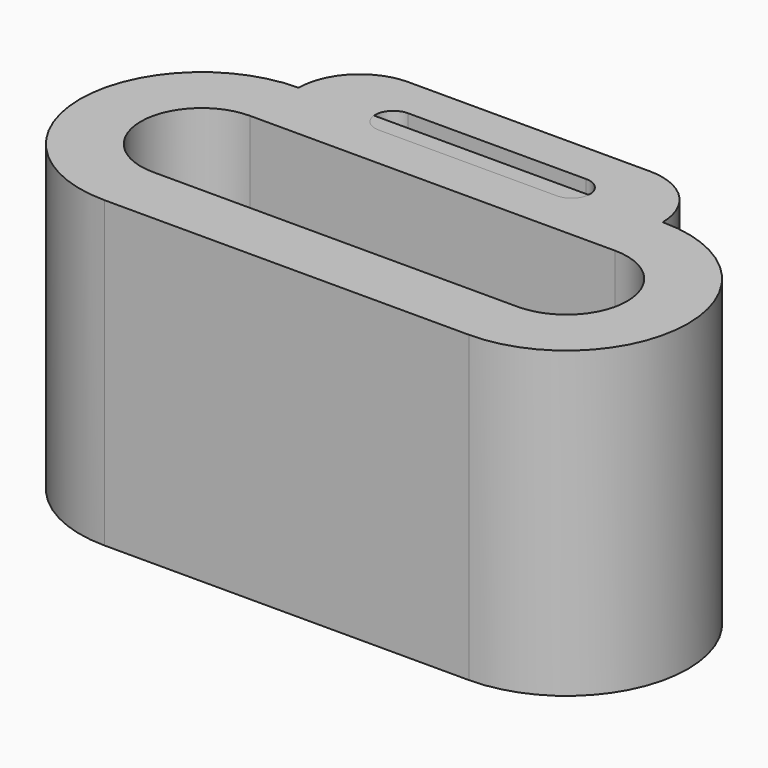
from build123d import *

# Parameters (mm, degrees)
PAD_DEPTH    = 5
PAD001_DEPTH = 5


with BuildPart() as single:
    # Sketch → Pad (new body)
    with BuildSketch(Plane.XY):
        with BuildLine():
            ThreePointArc((-3, 2), (-5, 0), (-3, -2))
            Line((-3, -2), (3, -2))
            ThreePointArc((3, -2), (5, 0), (3, 2))
            Line((3, 2), (-3, 2))
        make_face()
        with BuildLine():
            ThreePointArc((-3, 1), (-4, 0), (-3, -1))
            Line((-3, -1), (3, -1))
            ThreePointArc((3, -1), (4, 0), (3, 1))
            Line((3, 1), (-3, 1))
        make_face(mode=Mode.SUBTRACT)
    extrude(amount=PAD_DEPTH)


with BuildPart() as double:
    # Sketch001 → Pad001 (new body)
    with BuildSketch(Plane.XY):
        with BuildLine():
            ThreePointArc((-3.002814, 1.998831), (-4.998832, -0.001407), (-3, -1.998832))
            Line((-3, -1.998832), (3, -1.998832))
            ThreePointArc((3, -1.998832), (4.998814, 0.008482), (2.983037, 1.998761))
            ThreePointArc((2.983037, 1.998761), (2.685452, 2.709226), (1.973425, 3.003057))
            Line((-2, 3.003057), (1.973425, 3.003057))
            ThreePointArc((-2, 3.003057), (-2.709596, 2.70884), (-3.002814, 1.998831))
        make_face()
        with BuildLine():
            ThreePointArc((-3, 1), (-4, 0), (-3, -1))
            Line((-3, -1), (3, -1))
            ThreePointArc((3, -1), (4, 0), (3, 1))
            Line((3, 1), (-3, 1))
        make_face(mode=Mode.SUBTRACT)
        with BuildLine():
            ThreePointArc((-1.466142, 2.323719), (-1.766142, 2.023719), (-1.466142, 1.723719))
            Line((-1.466142, 1.723719), (1.466142, 1.723719))
            ThreePointArc((1.466142, 1.723719), (1.766142, 2.023719), (1.466142, 2.323719))
            Line((-1.466142, 2.323719), (1.466142, 2.323719))
        make_face(mode=Mode.SUBTRACT)
    extrude(amount=PAD001_DEPTH)


solid = Compound([single.part, double.part])
